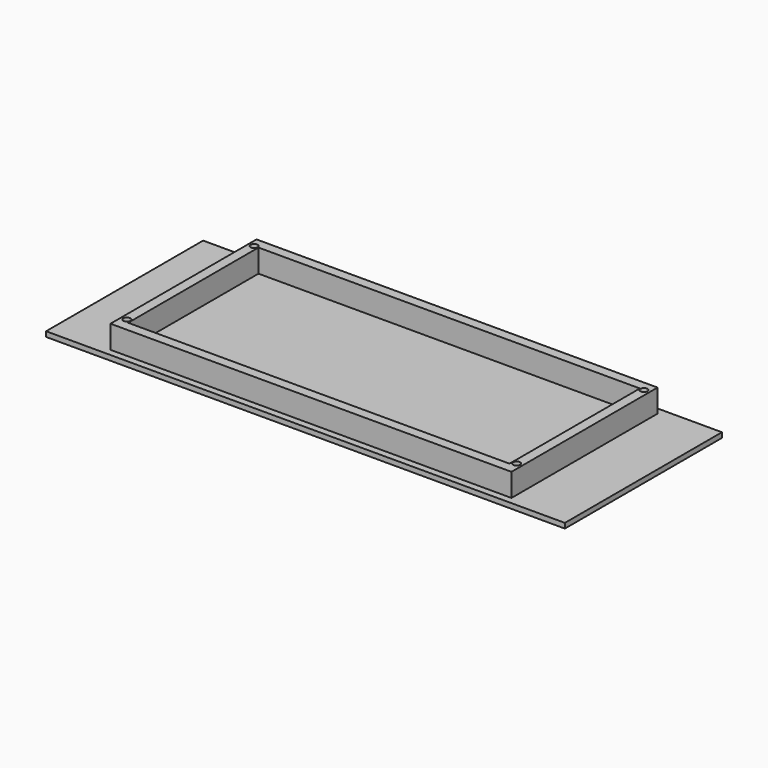
from build123d import *

# Parameters (mm, degrees)
F0_W     = 185
F0_H     = 70
F0_W_2   = 143
F0_H_2   = 65.1
F0_R     = 1.25
F0_W_3   = 136
F0_H_3   = 58.1
F1_DEPTH = 1.8
F2_DEPTH = 10


with BuildPart() as f1:
    # F0 (on Top) → F1 (new body)
    with BuildSketch(Plane.XY):
        Rectangle(F0_W, F0_H)
        Rectangle(F0_W_2, F0_H_2, mode=Mode.SUBTRACT)
        Rectangle(F0_W_2, F0_H_2)
        with Locations((-69.5, -27.75)):
            Circle(F0_R, mode=Mode.SUBTRACT)
        with Locations((69.5, -27.75)):
            Circle(F0_R, mode=Mode.SUBTRACT)
        with Locations((-69.5, 29)):
            Circle(F0_R, mode=Mode.SUBTRACT)
        Rectangle(F0_W_3, F0_H_3, mode=Mode.SUBTRACT)
        with Locations((69.5, 29)):
            Circle(F0_R, mode=Mode.SUBTRACT)
        Rectangle(F0_W_3, F0_H_3)
        with Locations((-69.5, -27.75)):
            Circle(F0_R)
        with Locations((-69.5, 29)):
            Circle(F0_R)
        with Locations((69.5, 29)):
            Circle(F0_R)
        with Locations((69.5, -27.75)):
            Circle(F0_R)
    extrude(amount=F1_DEPTH)

    # F0 (on Top) → F2 (join)
    with BuildSketch(Plane.XY):
        Rectangle(F0_W_2, F0_H_2)
        with Locations((-69.5, -27.75)):
            Circle(F0_R, mode=Mode.SUBTRACT)
        with Locations((69.5, -27.75)):
            Circle(F0_R, mode=Mode.SUBTRACT)
        with Locations((-69.5, 29)):
            Circle(F0_R, mode=Mode.SUBTRACT)
        Rectangle(F0_W_3, F0_H_3, mode=Mode.SUBTRACT)
        with Locations((69.5, 29)):
            Circle(F0_R, mode=Mode.SUBTRACT)
    extrude(amount=F2_DEPTH)


solid = f1.part
